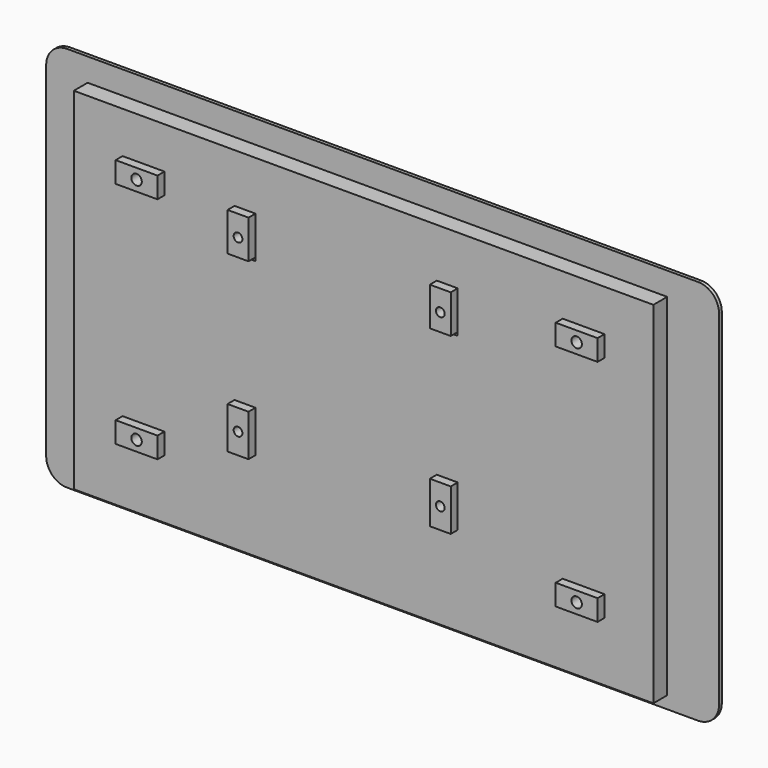
from build123d import *

# Parameters (mm, degrees)
F0_W     = 12
F0_H     = 6
F0_W_2   = 6
F0_H_2   = 12
F1_DEPTH = 5.96
F0_R     = 1.5
F0_H_3   = 11.0293431562
F0_R_2   = 1.25
F2_DEPTH = 8.46
F3_DEPTH = 1
F6_W     = 161.8837043643
F6_H     = 87.3608402908
F7_DEPTH = 0.1
F8_W     = 161.8837043643
F8_H     = 87.3608402908
F9_DEPTH = 0.1


with BuildPart() as f1:
    # F0 (on Front) → F1 (new body)
    with BuildSketch(Plane.XZ):
        Polygon((81.61, 48.75), (76.401591301, 48.75), (55.0863295794, 48.75), (55.0863295794, 28.67), (55.0863295794, 23.6406568438), (25.51, 23.6406568438), (25.51, 22.67), (19.51, 22.67), (19.51, 23.6406568438), (9.3936370686, 23.6406568438), (-32.49, 23.6406568438), (-32.49, 22.67), (-38.49, 22.67), (-38.49, 23.6406568438), (-64.59, 23.6406568438), (-84.59, 23.6406568438), (-84.59, 7.6714716852), (-84.59, -51.85), (81.61, -51.85), align=None)
        with Locations((-64.59, -31.85)):
            Rectangle(F0_W, F0_H, mode=Mode.SUBTRACT)
        with Locations((-35.49, -20.33)):
            Rectangle(F0_W_2, F0_H_2, mode=Mode.SUBTRACT)
        with Locations((61.61, -31.85)):
            Rectangle(F0_W, F0_H, mode=Mode.SUBTRACT)
        with Locations((22.51, -20.33)):
            Rectangle(F0_W_2, F0_H_2, mode=Mode.SUBTRACT)
        with Locations((61.61, 33.8)):
            Rectangle(F0_W, F0_H, mode=Mode.SUBTRACT)
        Polygon((55.0863295794, 48.75), (-83.4645852447, 48.75), (-84.59, 48.75), (-84.59, 39.8336872458), (-84.59, 23.6406568438), (-64.59, 23.6406568438), (-38.49, 23.6406568438), (-38.49, 34.67), (-32.49, 34.67), (-32.49, 23.6406568438), (9.3936370686, 23.6406568438), (19.51, 23.6406568438), (19.51, 34.67), (25.51, 34.67), (25.51, 23.6406568438), (55.0863295794, 23.6406568438), (55.0863295794, 28.67), align=None)
        with Locations((-64.59, 33.8)):
            Rectangle(F0_W, F0_H, mode=Mode.SUBTRACT)
    extrude(amount=F1_DEPTH)

    # F0 (on Front) → F2 (join)
    with BuildSketch(Plane.XZ):
        with Locations((-64.59, 33.8)):
            Rectangle(F0_W, F0_H)
        with Locations((-64.59, 33.8)):
            Circle(F0_R, mode=Mode.SUBTRACT)
        with Locations((-35.49, 29.1553284219)):
            Rectangle(F0_W_2, F0_H_3)
        with Locations((-35.49, 28.67)):
            Circle(F0_R_2, mode=Mode.SUBTRACT)
        with Locations((22.51, 29.1553284219)):
            Rectangle(F0_W_2, F0_H_3)
        with Locations((22.51, 28.67)):
            Circle(F0_R_2, mode=Mode.SUBTRACT)
        with Locations((61.61, 33.8)):
            Rectangle(F0_W, F0_H)
        with Locations((61.61, 33.8)):
            Circle(F0_R, mode=Mode.SUBTRACT)
        with Locations((22.51, -20.33)):
            Rectangle(F0_W_2, F0_H_2)
        with Locations((22.51, -20.33)):
            Circle(F0_R_2, mode=Mode.SUBTRACT)
        with Locations((61.61, -31.85)):
            Rectangle(F0_W, F0_H)
        with Locations((61.61, -31.85)):
            Circle(F0_R, mode=Mode.SUBTRACT)
        with Locations((-35.49, -20.33)):
            Rectangle(F0_W_2, F0_H_2)
        with Locations((-35.49, -20.33)):
            Circle(F0_R_2, mode=Mode.SUBTRACT)
        with Locations((-64.59, -31.85)):
            Rectangle(F0_W, F0_H)
        with Locations((-64.59, -31.85)):
            Circle(F0_R, mode=Mode.SUBTRACT)
    extrude(amount=F2_DEPTH)

    # F0 (on Front) → F3 (join)
    with BuildSketch(Plane.XZ):
        with BuildLine():
            ThreePointArc((96.48, 49.38), (94.7226406871, 53.6226406871), (90.48, 55.38))
            Line((90.48, 55.38), (76.401591301, 55.38))
            Line((76.401591301, 55.38), (76.401591301, 48.75))
            Line((76.401591301, 48.75), (81.61, 48.75))
            Line((81.61, 48.75), (81.61, -51.85))
            Line((81.61, -51.85), (-84.59, -51.85))
            Line((-84.59, -51.85), (-84.59, 7.6714716852))
            Line((-84.59, 7.6714716852), (-84.59, 23.6406568438))
            Line((-84.59, 23.6406568438), (-84.59, 39.8336872458))
            Line((-84.59, 39.8336872458), (-96.48, 39.8336872458))
            Line((-96.48, 39.8336872458), (-96.48, -49.38))
            ThreePointArc((-96.48, -49.38), (-94.7226406871, -53.6226406871), (-90.48, -55.38))
            Line((-90.48, -55.38), (90.48, -55.38))
            ThreePointArc((90.48, -55.38), (94.7226406871, -53.6226406871), (96.48, -49.38))
            Line((96.48, -49.38), (96.48, 49.38))
        make_face()
        with BuildLine():
            Line((-83.4645852447, 48.75), (-83.4645852447, 55.38))
            Line((-83.4645852447, 55.38), (-90.48, 55.38))
            ThreePointArc((-90.48, 55.38), (-94.7226406871, 53.6226406871), (-96.48, 49.38))
            Line((-96.48, 49.38), (-96.48, 39.8336872458))
            Line((-96.48, 39.8336872458), (-84.59, 39.8336872458))
            Line((-84.59, 39.8336872458), (-84.59, 48.75))
            Line((-84.59, 48.75), (-83.4645852447, 48.75))
        make_face()
        Polygon((76.401591301, 48.75), (76.401591301, 55.38), (-83.4645852447, 55.38), (-83.4645852447, 48.75), (55.0863295794, 48.75), align=None)
    extrude(amount=F3_DEPTH)


with BuildPart() as f7:
    # F6 (on offset) → F7 (new body)
    with BuildSketch(Plane(origin=(0, 0, 0), x_dir=(-1, 0, 0), z_dir=(0, 1, 0))):
        with Locations((3.2877735794, 1.2524854392)):
            Rectangle(F6_W, F6_H)
    extrude(amount=F7_DEPTH)

    # F8 (on face) → F9 (join)
    with BuildSketch(Plane(origin=(0, 0.1, 0), x_dir=(-1, 0, 0), z_dir=(0, 1, 0))):
        with Locations((3.2877735794, 1.2524854392)):
            Rectangle(F8_W, F8_H)
    extrude(amount=F9_DEPTH)


solid = Compound([f1.part, f7.part])
